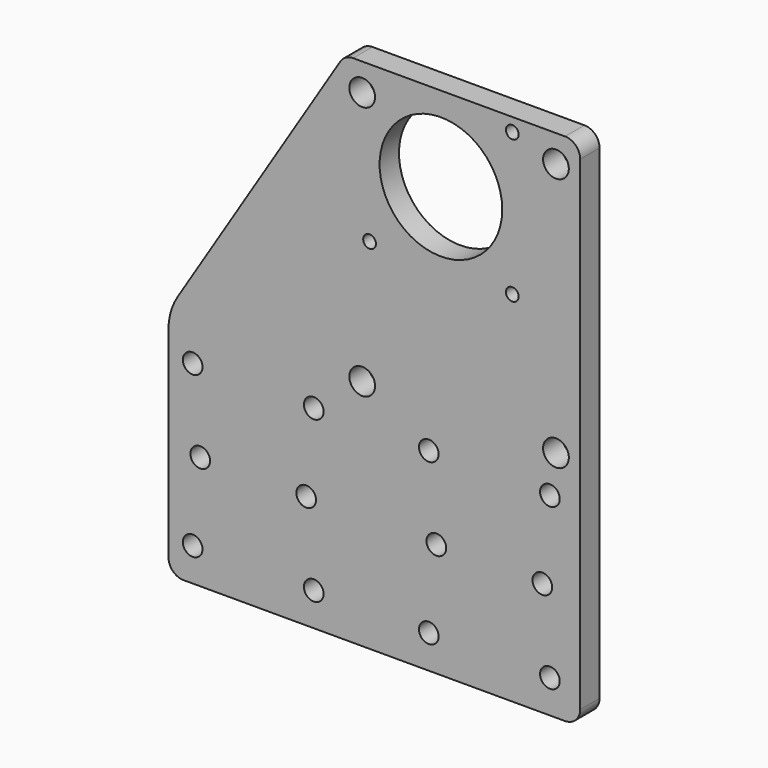
from build123d import *

# Parameters (mm, degrees)
F0_R     = 3.25
F0_R_2   = 4.25
F0_R_3   = 2.1
F0_R_4   = 20.25
F1_DEPTH = 8


with BuildPart() as f1:
    # F0 (on Front) → F1 (new body)
    with BuildSketch(Plane.XZ):
        with BuildLine():
            Line((-51, -81.84203), (75, -81.84203))
            ThreePointArc((75, -81.84203), (78.535534, -80.377564), (80, -76.84203))
            Line((80, -76.84203), (80, 83.157967))
            ThreePointArc((80, 83.157967), (78.535534, 86.693501), (75, 88.157967))
            Line((75, 88.157967), (66, 88.157967))
            Line((66, 88.157967), (14, 88.157967))
            Line((14, 88.157967), (5, 88.157967))
            ThreePointArc((5, 88.157967), (2.576959, 87.531623), (0.76098, 85.809515))
            Line((0.76098, 85.809515), (-52.956081, -0.067761))
            ThreePointArc((-52.956081, -0.067761), (-55.223965, -5.156781), (-56, -10.673953))
            Line((-56, -10.673953), (-56, -76.84203))
            ThreePointArc((-56, -76.84203), (-54.535534, -80.377564), (-51, -81.84203))
        make_face()
        with Locations((-48, -70.84203)):
            Circle(F0_R, mode=Mode.SUBTRACT)
        with Locations((-45.5, -44.34203)):
            Circle(F0_R, mode=Mode.SUBTRACT)
        with Locations((-8, -70.84203)):
            Circle(F0_R, mode=Mode.SUBTRACT)
        with Locations((-10.5, -44.34203)):
            Circle(F0_R, mode=Mode.SUBTRACT)
        with Locations((-48, -17.84203)):
            Circle(F0_R, mode=Mode.SUBTRACT)
        with Locations((-8, -17.84203)):
            Circle(F0_R, mode=Mode.SUBTRACT)
        with Locations((8, -4.842033)):
            Circle(F0_R_2, mode=Mode.SUBTRACT)
        with Locations((30, -70.84203)):
            Circle(F0_R, mode=Mode.SUBTRACT)
        with Locations((32.5, -44.34203)):
            Circle(F0_R, mode=Mode.SUBTRACT)
        with Locations((70, -70.84203)):
            Circle(F0_R, mode=Mode.SUBTRACT)
        with Locations((67.5, -44.34203)):
            Circle(F0_R, mode=Mode.SUBTRACT)
        with Locations((30, -17.84203)):
            Circle(F0_R, mode=Mode.SUBTRACT)
        with Locations((70, -17.84203)):
            Circle(F0_R, mode=Mode.SUBTRACT)
        with Locations((72, -4.842033)):
            Circle(F0_R_2, mode=Mode.SUBTRACT)
        with Locations((10.43, 36.587972)):
            Circle(F0_R_3, mode=Mode.SUBTRACT)
        with Locations((8, 79.157967)):
            Circle(F0_R_2, mode=Mode.SUBTRACT)
        with Locations((57.57, 36.587972)):
            Circle(F0_R_3, mode=Mode.SUBTRACT)
        with Locations((34, 60.157972)):
            Circle(F0_R_4, mode=Mode.SUBTRACT)
        with Locations((57.57, 83.727972)):
            Circle(F0_R_3, mode=Mode.SUBTRACT)
        with Locations((72, 79.157967)):
            Circle(F0_R_2, mode=Mode.SUBTRACT)
    extrude(amount=F1_DEPTH)


solid = f1.part
